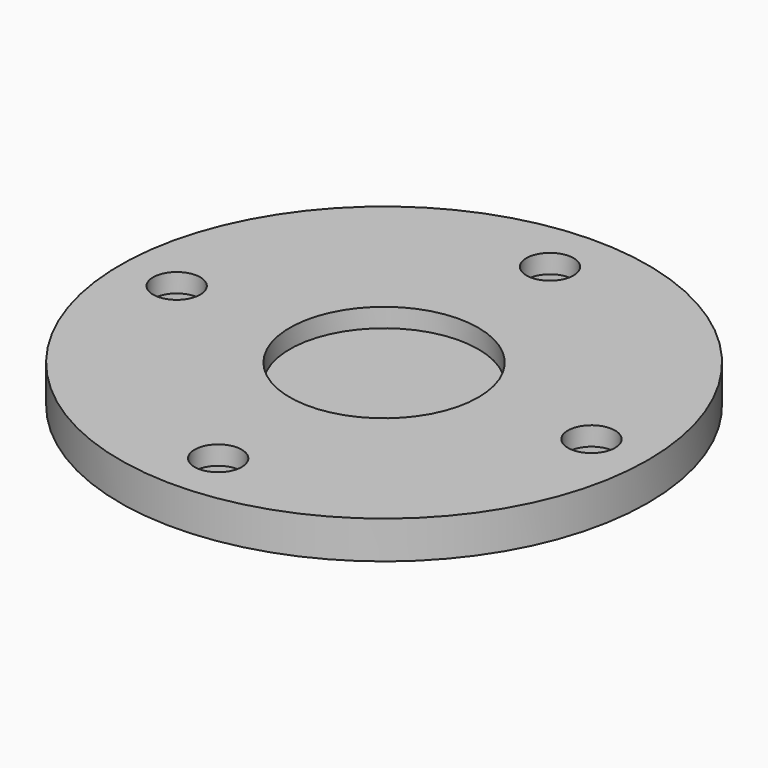
from build123d import *

# Parameters (mm, degrees)
SKETCH_R        = 14
SKETCH_R_2      = 1.25
PAD_DEPTH       = 2
SKETCH001_R     = 5
POCKET_DEPTH    = 1
SKETCH002_R     = 2.5
POCKET001_DEPTH = 1


with BuildPart() as part:
    # Sketch → Pad (new body)
    with BuildSketch(Plane.XY):
        Circle(SKETCH_R)
        with Locations((0, 11)):
            Circle(SKETCH_R_2, mode=Mode.SUBTRACT)
        with Locations((-11, 0)):
            Circle(SKETCH_R_2, mode=Mode.SUBTRACT)
        with Locations((0, -11)):
            Circle(SKETCH_R_2, mode=Mode.SUBTRACT)
        with Locations((11, 0)):
            Circle(SKETCH_R_2, mode=Mode.SUBTRACT)
    extrude(amount=PAD_DEPTH)

    # Sketch001 (on Face7 of Pad) → Pocket (cut)
    with BuildSketch(Plane.XY.offset(2)):
        Circle(SKETCH001_R)
    extrude(amount=-POCKET_DEPTH, mode=Mode.SUBTRACT)

    # Sketch002 (on Face2 of Pocket) → Pocket001 (cut)
    with BuildSketch(Plane(origin=(0, 0, 0), x_dir=(1, 0, 0), z_dir=(0, 0, -1))):
        with Locations((0, 11)):
            Circle(SKETCH002_R)
        with Locations((11, 0)):
            Circle(SKETCH002_R)
        with Locations((-11, 0)):
            Circle(SKETCH002_R)
        with Locations((0, -11)):
            Circle(SKETCH002_R)
    extrude(amount=-POCKET001_DEPTH, mode=Mode.SUBTRACT)


solid = part.part
